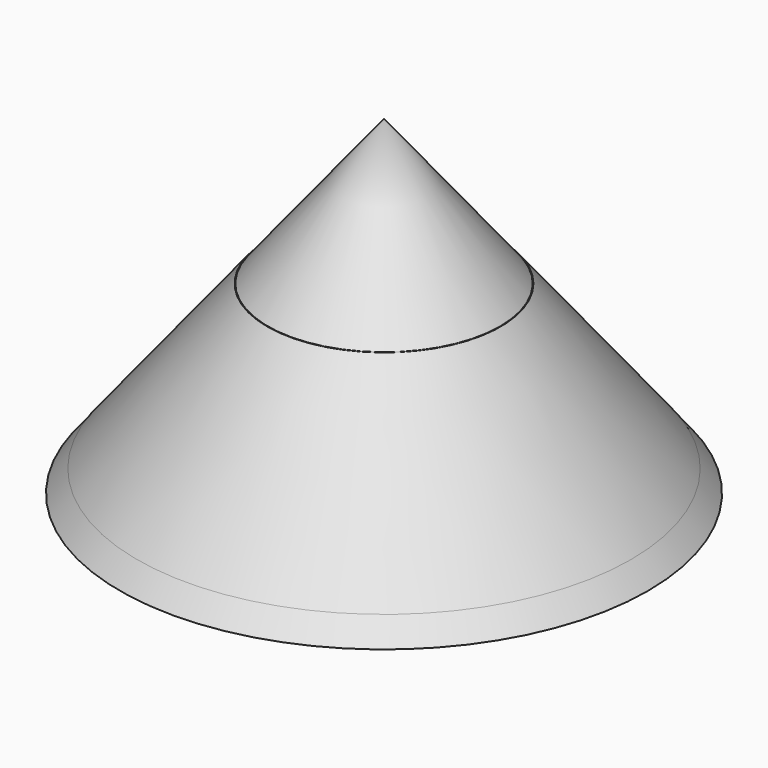
from build123d import *


with BuildPart() as f1:
    # F0 (on Front) → F1 (revolve)
    with BuildSketch(Plane.XZ):
        Polygon((-120, 0), (0, 0), (0, 150), align=None)
    revolve(axis=Axis((0, 0, 75), (0, 0, 1)))


with BuildPart() as f3:
    # F2 (on Front) → F3 (revolve)
    with BuildSketch(Plane.XZ):
        Polygon((-112, 10), (0, 10), (0, 84.001362), (-52.79891, 84.001362), align=None)
        Polygon((-112.256125, 10), (-112, 10), (-52.79891, 84.001362), (-53.055035, 84.001362), align=None)
    revolve(axis=Axis((0, 0, 47.000681), (0, 0, 1)))


solid = Compound([f1.part, f3.part])
